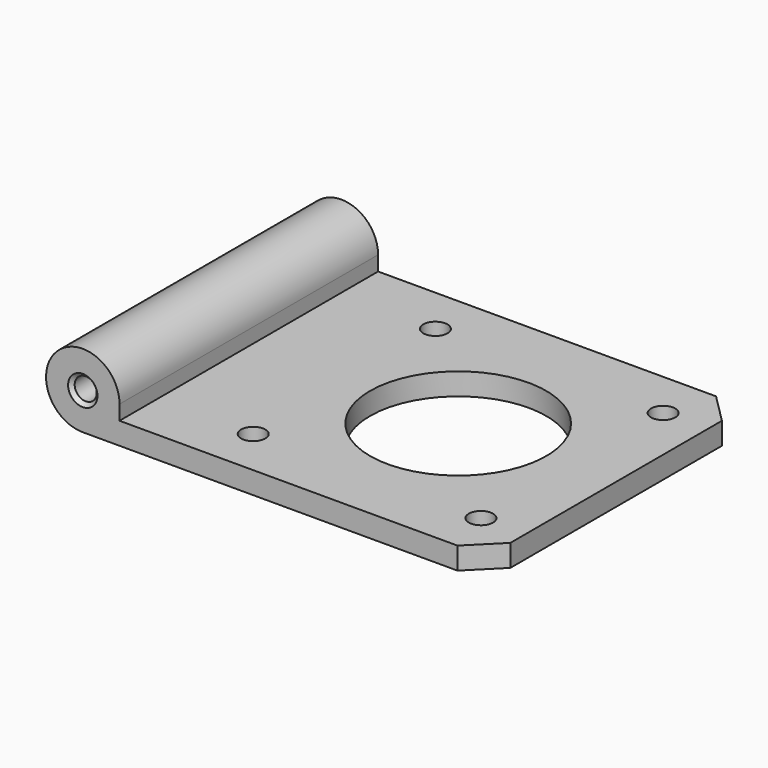
from build123d import *

# Parameters (mm, degrees)
SKETCH_R        = 1.5
PAD_DEPTH       = 22
SKETCH001_R     = 12
SKETCH001_R_2   = 1.65
POCKET_DEPTH    = 3.001
CHAMFER_SIZE    = 0.5
CHAMFER001_SIZE = 4
SKETCH002_R     = 3
SKETCH002_R_2   = 1.8
PAD001_DEPTH    = 1
CHAMFER002_SIZE = 0.5


with BuildPart() as part:
    # Sketch → Pad (new body, symmetric)
    with BuildSketch(Plane.XZ):
        with BuildLine():
            ThreePointArc((5, 5.000025), (-3.535543, 8.535525), (0, 0))
            Line((0, 0), (55, 0))
            Line((55, 0), (55, 3))
            Line((55, 3), (5, 3))
            Line((5, 3), (5, 5.000025))
        make_face()
        with Locations((0, 5)):
            Circle(SKETCH_R, mode=Mode.SUBTRACT)
    extrude(amount=PAD_DEPTH, both=True)

    # Sketch001 → Pocket (cut, through all)
    with BuildSketch(Plane(origin=(0, 0, 3), x_dir=(-1, 0, 0), z_dir=(0, 0, 1))):
        with Locations((-33.5, 0)):
            Circle(SKETCH001_R)
        with Locations((-49, 15.5)):
            Circle(SKETCH001_R_2)
        with Locations((-18, 15.5)):
            Circle(SKETCH001_R_2)
        with Locations((-18, -15.5)):
            Circle(SKETCH001_R_2)
        with Locations((-49, -15.5)):
            Circle(SKETCH001_R_2)
    extrude(amount=-POCKET_DEPTH, mode=Mode.SUBTRACT)

    # Chamfer
    chamfer_edges = [part.edges().sort_by_distance(p)[0] for p in [
        (-1.5, -22, 5),
        (-1.5, 22, 5),
    ]]
    chamfer(chamfer_edges, length=CHAMFER_SIZE)

    # Chamfer001
    chamfer001_edges = [part.edges().sort_by_distance(p)[0] for p in [
        (55, 22, 1.5),
        (55, -22, 1.5),
    ]]
    chamfer(chamfer001_edges, length=CHAMFER001_SIZE)

    # Sketch002 → Pad001 (new body)
    with BuildSketch(Plane(origin=(0, 0, 0), x_dir=(1, 0, 0), z_dir=(0, 0, -1))):
        with Locations((49, -15.5)):
            Circle(SKETCH002_R)
        with Locations((49, -15.5)):
            Circle(SKETCH002_R_2, mode=Mode.SUBTRACT)
        with Locations((18, 15.5)):
            Circle(SKETCH002_R)
        with Locations((18, 15.5)):
            Circle(SKETCH002_R_2, mode=Mode.SUBTRACT)
    extrude(amount=PAD001_DEPTH)

    # Chamfer002
    chamfer002_edges = [part.edges().sort_by_distance(p)[0] for p in [
        (46, 15.5, -1),
        (15, -15.5, -1),
    ]]
    chamfer(chamfer002_edges, length=CHAMFER002_SIZE)


solid = part.part
